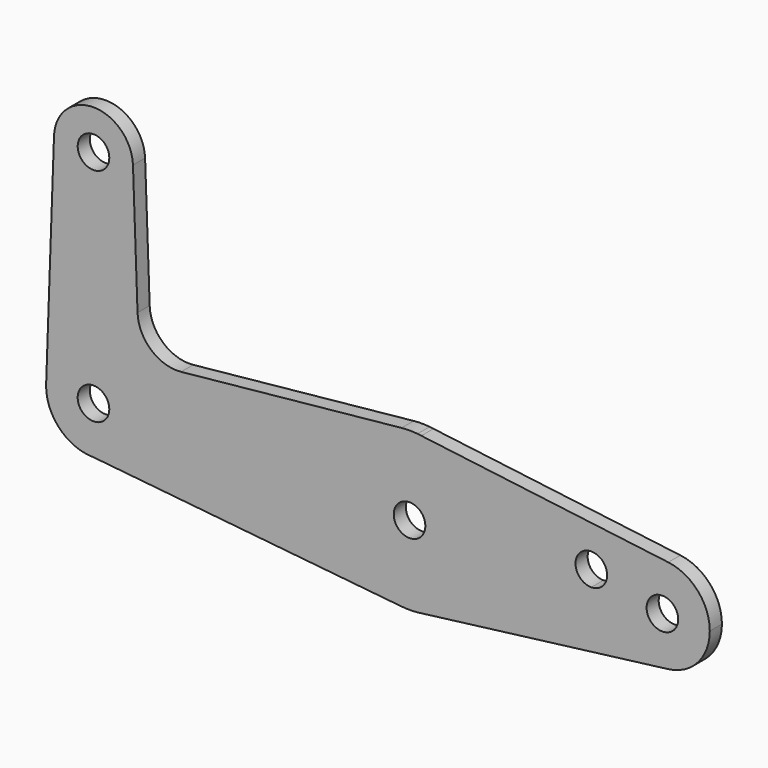
from build123d import *

# Parameters (mm, degrees)
F0_R     = 3.175
F1_DEPTH = 3.048


with BuildPart() as f1:
    # F0 (on Front) → F1 (new body)
    with BuildSketch(Plane.XZ):
        with BuildLine():
            ThreePointArc((0, -9.525), (6.7351920908, -6.7351920908), (9.525, 0))
            ThreePointArc((9.525, 0), (0.3388863295, 9.5189695375), (-9.500885786, 0.6773435479))
            Line((-9.500885786, 0.6773435479), (-9.525, 0))
            ThreePointArc((-9.525, 0), (-6.7351920908, -6.7351920908), (0, -9.525))
        make_face()
        Circle(F0_R, mode=Mode.SUBTRACT)
        with BuildLine():
            ThreePointArc((-9.500885786, 0.6773435479), (0.3388863295, 9.5189695375), (9.525, 0))
            Line((9.525, 0), (47.625, 0))
            ThreePointArc((47.625, 0), (51.722700101, 10.644756084), (61.9003804205, 15.7942028036))
            Line((61.9003804205, 15.7942028036), (17.5971800924, 11.3072231466))
            ThreePointArc((17.5971800924, 11.3072231466), (11.5709798305, 13.2249738114), (8.850924033, 18.9341027877))
            Line((8.850924033, 18.9341027877), (7.9324746146, 44.7324052746))
            ThreePointArc((7.9324746146, 44.7324052746), (7.9362435542, 44.5912249921), (7.9375, 44.45))
            ThreePointArc((7.9375, 44.45), (-0.1412249921, 36.5137564458), (-7.9324746146, 44.7324052746))
            Line((-7.9324746146, 44.7324052746), (-9.500885786, 0.6773435479))
        make_face()
        with BuildLine():
            Line((47.625, 0), (9.525, 0))
            ThreePointArc((9.525, 0), (6.7351920908, -6.7351920908), (0, -9.525))
            Line((0, -9.525), (61.9003804205, -15.7942028036))
            ThreePointArc((61.9003804205, -15.7942028036), (51.722700101, -10.644756084), (47.625, 0))
        make_face()
        with BuildLine():
            ThreePointArc((61.9003804205, 15.7942028036), (51.722700101, 10.644756084), (47.625, 0))
            Line((47.625, 0), (60.325, 0))
            ThreePointArc((60.325, 0), (63.5, 3.175), (66.675, 0))
            Line((66.675, 0), (79.375, 0))
            ThreePointArc((79.375, 0), (75.5324661069, 10.3554519161), (65.8650303134, 15.6978424192))
            Line((65.8650303134, 15.6978424192), (65.0996195795, 15.7942028036))
            Line((65.0996195795, 15.7942028036), (61.9003804205, 15.7942028036))
        make_face()
        with BuildLine():
            Line((60.325, 0), (47.625, 0))
            ThreePointArc((47.625, 0), (51.722700101, -10.644756084), (61.9003804205, -15.7942028036))
            Line((61.9003804205, -15.7942028036), (65.0996195795, -15.7942028036))
            Line((65.0996195795, -15.7942028036), (65.8650303134, -15.6978424192))
            ThreePointArc((65.8650303134, -15.6978424192), (75.5324661069, -10.3554519161), (79.375, 0))
            Line((79.375, 0), (66.675, 0))
            ThreePointArc((66.675, 0), (63.5, -3.175), (60.325, 0))
        make_face()
        with BuildLine():
            Line((-9.525, 0), (-9.500885786, 0.6773435479))
            ThreePointArc((-9.500885786, 0.6773435479), (-9.5189695375, 0.3388863295), (-9.525, 0))
        make_face()
        with BuildLine():
            ThreePointArc((65.0996195795, 15.7942028036), (63.5, 15.875), (61.9003804205, 15.7942028036))
            Line((61.9003804205, 15.7942028036), (65.0996195795, 15.7942028036))
        make_face()
        with BuildLine():
            Line((65.0996195795, -15.7942028036), (61.9003804205, -15.7942028036))
            ThreePointArc((61.9003804205, -15.7942028036), (63.5, -15.875), (65.0996195795, -15.7942028036))
        make_face()
        with BuildLine():
            ThreePointArc((7.9324746146, 44.7324052746), (0, 52.3875), (-7.9324746146, 44.7324052746))
            ThreePointArc((-7.9324746146, 44.7324052746), (-0.1412249921, 36.5137564458), (7.9375, 44.45))
            ThreePointArc((7.9375, 44.45), (7.9362435542, 44.5912249921), (7.9324746146, 44.7324052746))
        make_face()
        with Locations((0, 44.45)):
            Circle(F0_R, mode=Mode.SUBTRACT)
        with BuildLine():
            ThreePointArc((65.8650303134, 15.6978424192), (65.4829103672, 15.7506727309), (65.0996195795, 15.7942028036))
            Line((65.0996195795, 15.7942028036), (65.8650303134, 15.6978424192))
        make_face()
        with BuildLine():
            Line((65.8650303134, -15.6978424192), (65.0996195795, -15.7942028036))
            ThreePointArc((65.0996195795, -15.7942028036), (65.4829103672, -15.7506727309), (65.8650303134, -15.6978424192))
        make_face()
        with BuildLine():
            ThreePointArc((65.8650303134, 15.6978424192), (75.5324661069, 10.3554519161), (79.375, 0))
            ThreePointArc((79.375, 0), (75.5324661069, -10.3554519161), (65.8650303134, -15.6978424192))
            Line((65.8650303134, -15.6978424192), (115.4897462203, -9.4504036385))
            ThreePointArc((115.4897462203, -9.4504036385), (104.775, 0), (115.4897462203, 9.4504036385))
            Line((115.4897462203, 9.4504036385), (65.8650303134, 15.6978424192))
        make_face()
        with BuildLine():
            ThreePointArc((103.2002, 3.175), (102.2702640303, 0.9299359697), (100.0252, 0))
            ThreePointArc((100.0252, 0), (97.7801359697, 5.4200640303), (103.2002, 3.175))
        make_face(mode=Mode.SUBTRACT)
        with BuildLine():
            ThreePointArc((123.825, 0), (121.4434570674, 6.3005274482), (115.4897462203, 9.4504036385))
            ThreePointArc((115.4897462203, 9.4504036385), (104.775, 0), (115.4897462203, -9.4504036385))
            ThreePointArc((115.4897462203, -9.4504036385), (121.4434570674, -6.3005274482), (123.825, 0))
        make_face()
        with Locations((114.3, 0)):
            Circle(F0_R, mode=Mode.SUBTRACT)
    extrude(amount=F1_DEPTH)


solid = f1.part
